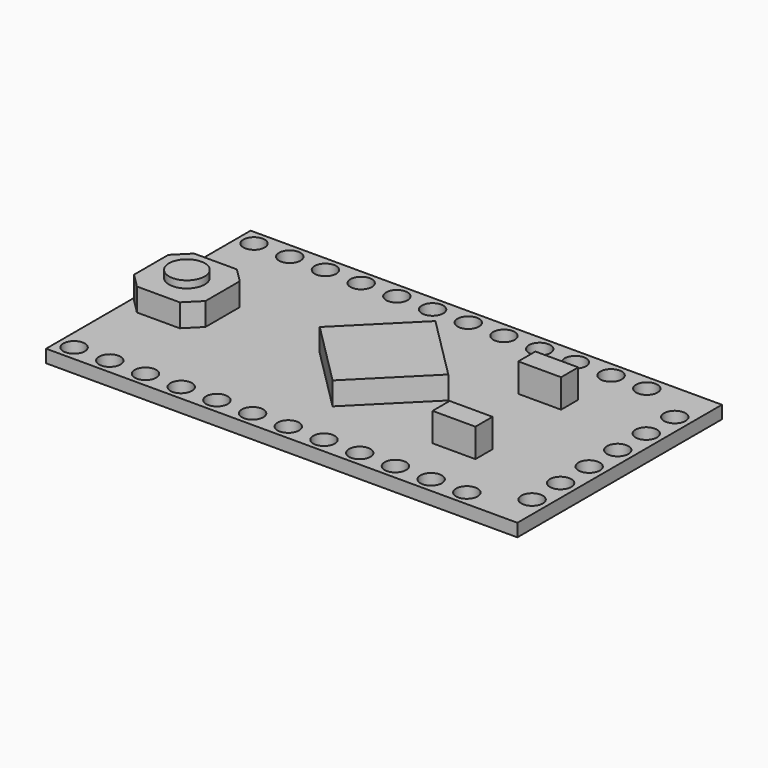
from build123d import *

# Parameters (mm, degrees)
F0_W      = 33
F0_H      = 17.9
F1_DEPTH  = 0.9
F3_DEPTH  = 1.6
F5_DEPTH  = 1.6
F6_R      = 1.25
F7_DEPTH  = 0.5
F8_R      = 0.75
F9_DEPTH  = 25
F10_W     = 3
F10_H     = 1.5
F11_DEPTH = 2


with BuildPart() as f1:
    # F0 (on Top) → F1 (new body)
    with BuildSketch(Plane.XY):
        Rectangle(F0_W, F0_H)
    extrude(amount=F1_DEPTH)

    # F2 (on face) → F3 (join)
    with BuildSketch(Plane.XY.offset(0.9)):
        Polygon((4.5, 0), (0, 4.5), (-4.5, 0), (0, -4.5), align=None)
    extrude(amount=F3_DEPTH)

    # F4 (on face) → F5 (join)
    with BuildSketch(Plane.XY.offset(0.9)):
        Polygon((-12.3, 2.5), (-15.3, 2.5), (-16.3, 1.5), (-16.3, -1.5), (-15.3, -2.5), (-12.3, -2.5), (-11.3, -1.5), (-11.3, 1.5), align=None)
    extrude(amount=F5_DEPTH)

    # F6 (on face) → F7 (join)
    with BuildSketch(Plane.XY.offset(2.5)):
        with Locations((-13.8, 0)):
            Circle(F6_R)
    extrude(amount=F7_DEPTH)

    # F8 (on face) → F9 (cut)
    with BuildSketch(Plane.XY.offset(0.9)):
        with Locations((-15.4, 7.875409)):
            Circle(F8_R)
        with Locations((-12.9, 7.875409)):
            Circle(F8_R)
        with Locations((-10.4, 7.875409)):
            Circle(F8_R)
        with Locations((-7.9, 7.875409)):
            Circle(F8_R)
        with Locations((-5.4, 7.875409)):
            Circle(F8_R)
        with Locations((-2.9, 7.875409)):
            Circle(F8_R)
        with Locations((-0.4, 7.875409)):
            Circle(F8_R)
        with Locations((2.1, 7.875409)):
            Circle(F8_R)
        with Locations((4.6, 7.875409)):
            Circle(F8_R)
        with Locations((7.1, 7.875409)):
            Circle(F8_R)
        with Locations((9.6, 7.875409)):
            Circle(F8_R)
        with Locations((12.1, 7.875409)):
            Circle(F8_R)
        with Locations((-12.9, -7.875409)):
            Circle(F8_R)
        with Locations((-5.4, -7.875409)):
            Circle(F8_R)
        with Locations((-15.4, -7.875409)):
            Circle(F8_R)
        with Locations((-10.4, -7.875409)):
            Circle(F8_R)
        with Locations((-7.9, -7.875409)):
            Circle(F8_R)
        with Locations((12.1, -7.875409)):
            Circle(F8_R)
        with Locations((-2.9, -7.875409)):
            Circle(F8_R)
        with Locations((-0.4, -7.875409)):
            Circle(F8_R)
        with Locations((2.1, -7.875409)):
            Circle(F8_R)
        with Locations((4.6, -7.875409)):
            Circle(F8_R)
        with Locations((7.1, -7.875409)):
            Circle(F8_R)
        with Locations((9.6, -7.875409)):
            Circle(F8_R)
        with Locations((15.4, 6.2)):
            Circle(F8_R)
        with Locations((15.401431, 3.7)):
            Circle(F8_R)
        with Locations((15.402862, 1.200001)):
            Circle(F8_R)
        with Locations((15.404293, -1.299999)):
            Circle(F8_R)
        with Locations((15.405724, -3.799998)):
            Circle(F8_R)
        with Locations((15.407155, -6.299998)):
            Circle(F8_R)
    extrude(amount=-F9_DEPTH, mode=Mode.SUBTRACT)

    # F10 (on face) → F11 (join)
    with BuildSketch(Plane.XY.offset(0.9)):
        with Locations((8.5, 3.75)):
            Rectangle(F10_W, F10_H)
        with Locations((8.5, -3.75)):
            Rectangle(F10_W, F10_H)
    extrude(amount=F11_DEPTH)


solid = f1.part
